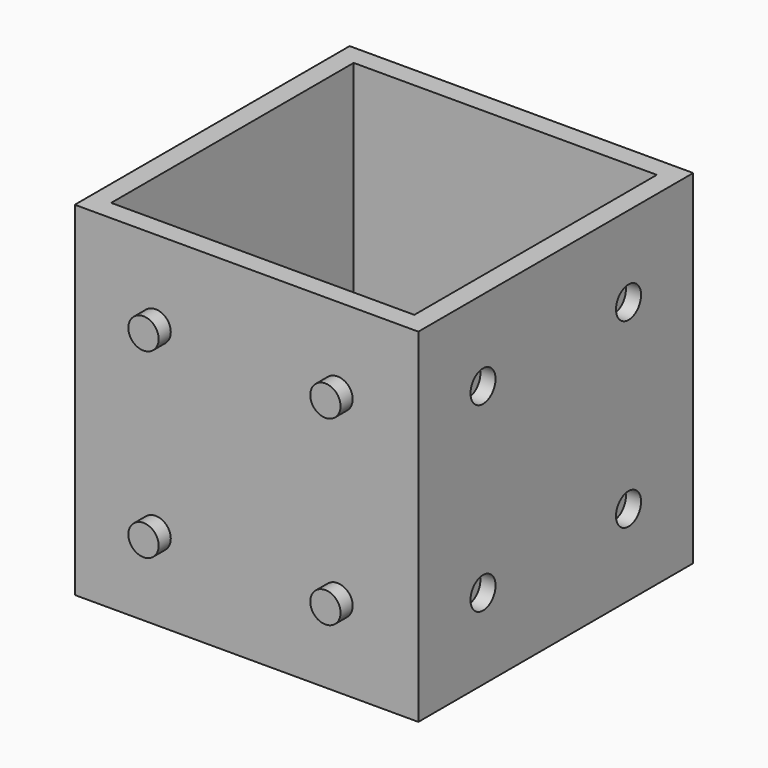
from build123d import *

# Parameters (mm, degrees)
F0_W      = 170
F0_H      = 170
F1_DEPTH  = 85
F2_W      = 150
F2_H      = 150
F3_DEPTH  = 85
F7_R      = 7.5
F8_DEPTH  = 7.5
F6_R      = 7.5
F9_DEPTH  = 7.5
F5_R      = 7.75
F10_DEPTH = 7.5
F4_R      = 7.75
F11_DEPTH = 7.5


with BuildPart() as f1:
    # F0 (on Top) → F1 (new body, symmetric)
    with BuildSketch(Plane.XY):
        Rectangle(F0_W, F0_H)
    extrude(amount=F1_DEPTH, both=True)

    # F2 (on Top) → F3 (cut, symmetric)
    with BuildSketch(Plane.XY):
        Rectangle(F2_W, F2_H)
    extrude(amount=F3_DEPTH, both=True, mode=Mode.SUBTRACT)

    # F7 (on face) → F8 (join, symmetric)
    with BuildSketch(Plane.XZ.offset(85)):
        with Locations((-45, 45)):
            Circle(F7_R)
        with Locations((45, 45)):
            Circle(F7_R)
        with Locations((45, -45)):
            Circle(F7_R)
        with Locations((-45, -45)):
            Circle(F7_R)
    extrude(amount=F8_DEPTH, both=True)

    # F6 (on face) → F9 (join, symmetric)
    with BuildSketch(Plane(origin=(0, 85, 0), x_dir=(-1, 0, 0), z_dir=(0, 1, 0))):
        with Locations((45, -45)):
            Circle(F6_R)
        with Locations((45, 45)):
            Circle(F6_R)
        with Locations((-45, 45)):
            Circle(F6_R)
        with Locations((-45, -45)):
            Circle(F6_R)
    extrude(amount=F9_DEPTH, both=True)

    # F5 (on face) → F10 (cut, symmetric)
    with BuildSketch(Plane(origin=(-85, 0, 0), x_dir=(0, -1, 0), z_dir=(-1, 0, 0))):
        with Locations((-45, 45)):
            Circle(F5_R)
        with Locations((45, 45)):
            Circle(F5_R)
        with Locations((45, -45)):
            Circle(F5_R)
        with Locations((-45, -45)):
            Circle(F5_R)
    extrude(amount=F10_DEPTH, both=True, mode=Mode.SUBTRACT)

    # F4 (on face) → F11 (cut, symmetric)
    with BuildSketch(Plane.YZ.offset(85)):
        with Locations((-45, 45)):
            Circle(F4_R)
        with Locations((45, 45)):
            Circle(F4_R)
        with Locations((45, -45)):
            Circle(F4_R)
        with Locations((-45, -45)):
            Circle(F4_R)
    extrude(amount=F11_DEPTH, both=True, mode=Mode.SUBTRACT)


solid = f1.part
